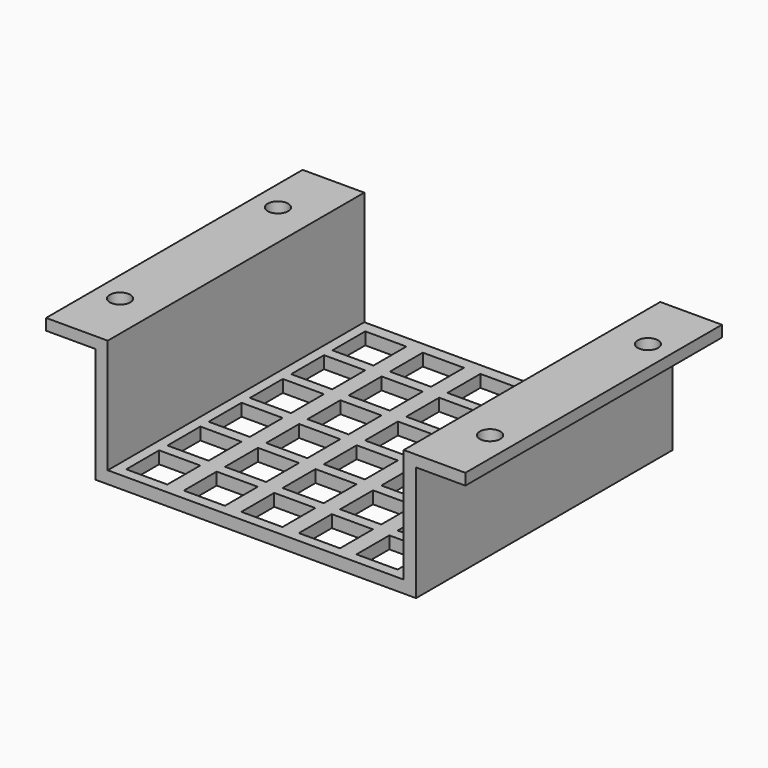
from build123d import *

# Parameters (mm, degrees)
F1_DEPTH = 39
F2_R     = 2.5
F3_DEPTH = 2.748387
F4_W     = 10
F4_H     = 10
F5_DEPTH = 3


with BuildPart() as f1:
    # F0 (on Front) → F1 (new body, symmetric)
    with BuildSketch(Plane.XZ):
        Polygon((33.024074, -6.624926), (-2.974825, -6.624926), (-2.974825, -9.624926), (36.025175, -9.624926), (36.025175, 18.375074), (48.024074, 18.375074), (48.024074, 21.123461), (33.024074, 21.123461), align=None)
        Polygon((-2.974825, -9.624926), (-2.974825, -6.624926), (-38.973723, -6.624926), (-38.973723, 21.123461), (-53.973723, 21.123461), (-53.973723, 18.375074), (-41.974825, 18.375074), (-41.974825, -9.624926), align=None)
    extrude(amount=F1_DEPTH, both=True)

    # F2 (on face) → F3 (cut, through all)
    with BuildSketch(Plane.XY.offset(21.123461)):
        with Locations((42.024624, -24)):
            Circle(F2_R)
        with Locations((42.024624, 24)):
            Circle(F2_R)
        with Locations((-47.974274, 24)):
            Circle(F2_R)
        with Locations((-47.974274, -24)):
            Circle(F2_R)
    extrude(amount=-F3_DEPTH, mode=Mode.SUBTRACT)

    # F4 (on face) → F5 (cut, through all)
    with BuildSketch(Plane(origin=(0, 0, -9.624926), x_dir=(1, 0, 0), z_dir=(0, 0, -1))):
        with Locations((-31.473723, 31.5)):
            Rectangle(F4_W, F4_H)
        with Locations((-17.473723, 31.5)):
            Rectangle(F4_W, F4_H)
        with Locations((-3.473723, 31.5)):
            Rectangle(F4_W, F4_H)
        with Locations((10.526277, 31.5)):
            Rectangle(F4_W, F4_H)
        with Locations((24.526277, 31.5)):
            Rectangle(F4_W, F4_H)
        with Locations((10.526277, 18.965352)):
            Rectangle(F4_W, F4_H)
        with Locations((24.526277, 18.965352)):
            Rectangle(F4_W, F4_H)
        with Locations((-31.473723, 18.965352)):
            Rectangle(F4_W, F4_H)
        with Locations((-17.473723, 18.965352)):
            Rectangle(F4_W, F4_H)
        with Locations((-3.473723, 18.965352)):
            Rectangle(F4_W, F4_H)
        with Locations((10.526277, 6.430703)):
            Rectangle(F4_W, F4_H)
        with Locations((24.526277, 6.430703)):
            Rectangle(F4_W, F4_H)
        with Locations((-31.473723, 6.430703)):
            Rectangle(F4_W, F4_H)
        with Locations((-17.473723, 6.430703)):
            Rectangle(F4_W, F4_H)
        with Locations((-3.473723, 6.430703)):
            Rectangle(F4_W, F4_H)
        with Locations((10.526277, -6.103945)):
            Rectangle(F4_W, F4_H)
        with Locations((24.526277, -6.103945)):
            Rectangle(F4_W, F4_H)
        with Locations((-31.473723, -6.103945)):
            Rectangle(F4_W, F4_H)
        with Locations((-17.473723, -6.103945)):
            Rectangle(F4_W, F4_H)
        with Locations((-3.473723, -6.103945)):
            Rectangle(F4_W, F4_H)
        with Locations((10.526277, -18.638594)):
            Rectangle(F4_W, F4_H)
        with Locations((24.526277, -18.638594)):
            Rectangle(F4_W, F4_H)
        with Locations((-31.473723, -18.638594)):
            Rectangle(F4_W, F4_H)
        with Locations((-17.473723, -18.638594)):
            Rectangle(F4_W, F4_H)
        with Locations((-3.473723, -18.638594)):
            Rectangle(F4_W, F4_H)
        with Locations((10.526277, -31.173242)):
            Rectangle(F4_W, F4_H)
        with Locations((24.526277, -31.173242)):
            Rectangle(F4_W, F4_H)
        with Locations((-31.473723, -31.173242)):
            Rectangle(F4_W, F4_H)
        with Locations((-17.473723, -31.173242)):
            Rectangle(F4_W, F4_H)
        with Locations((-3.473723, -31.173242)):
            Rectangle(F4_W, F4_H)
    extrude(amount=-F5_DEPTH, mode=Mode.SUBTRACT)


solid = f1.part
